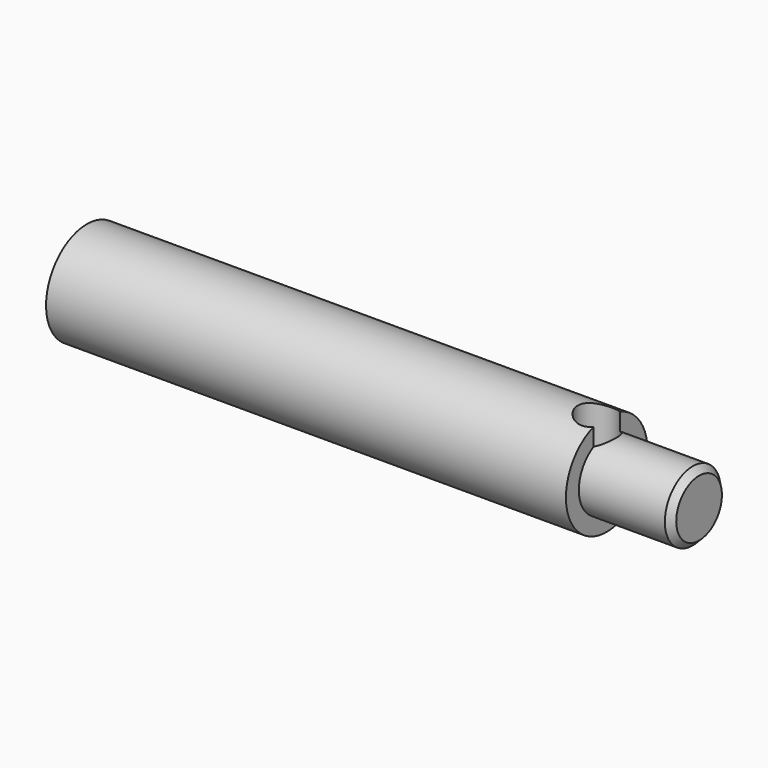
from build123d import *

# Parameters (mm, degrees)
F2_R     = 4.7625
F3_DEPTH = 25.4


with BuildPart() as f1:
    # F0 (on Front) → F1 (revolve)
    with BuildSketch(Plane.XZ):
        Polygon((-152.4, 0), (0, 0), (0, 7.112), (-1.5748, 8.6868), (-22.987, 8.6868), (-22.987, 12.7), (-152.4, 12.7), align=None)
    revolve(axis=Axis((-76.2, 0, 0), (1, 0, 0)))

    # F2 (on Top) → F3 (cut)
    with BuildSketch(Plane.XY):
        with Locations((-25.4, 0)):
            Circle(F2_R)
    extrude(amount=F3_DEPTH, mode=Mode.SUBTRACT)


solid = f1.part
